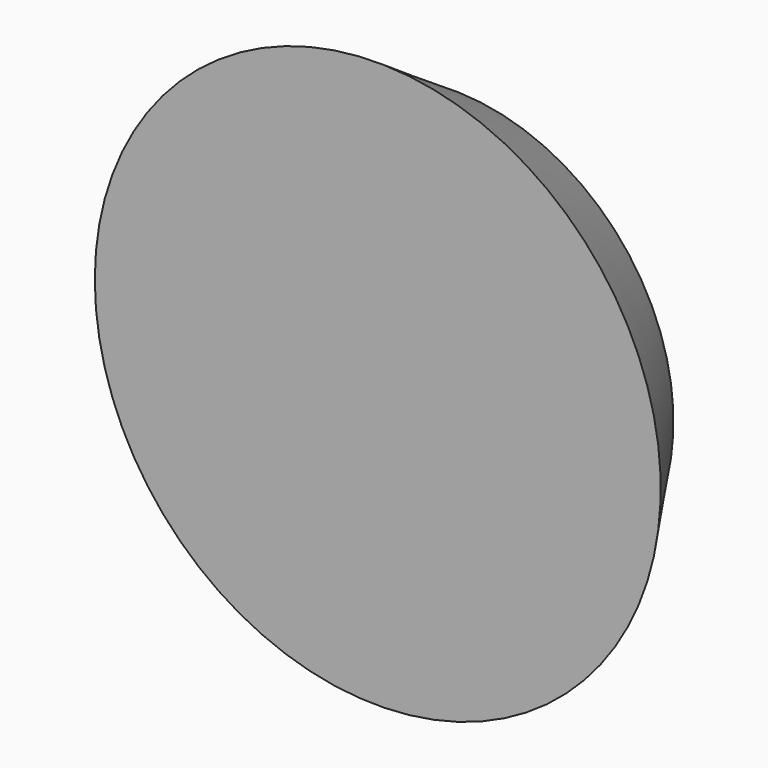
from build123d import *

# Parameters (mm, degrees)
F0_W = 7.005
F0_H = 3


with BuildPart() as f1:
    # F0 (on Top) → F1 (revolve)
    with BuildSketch(Plane.XY):
        Polygon((-52.840398, -30.786658), (-54.835398, -33.786658), (-52.840398, -33.786658), align=None)
        with Locations((-49.337898, -32.286658)):
            Rectangle(F0_W, F0_H)
        Polygon((-52.840398, -30.786658), (-54.835398, -33.786658), (-52.840398, -33.786658), align=None)
    revolve(axis=Axis((-45.835398, -33.279387, 0), (0, -1, 0)))


solid = f1.part
